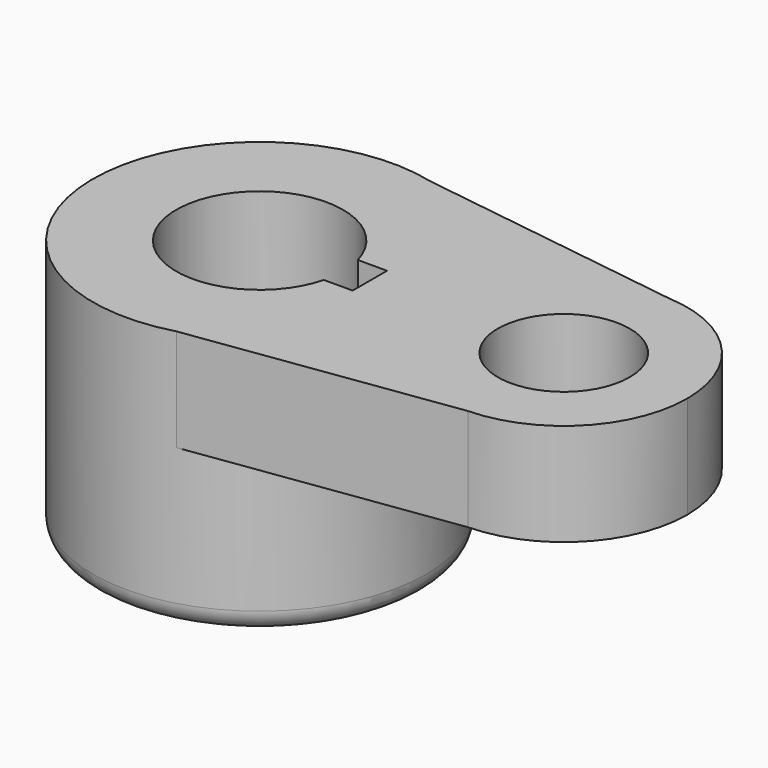
from build123d import *

# Parameters (mm, degrees)
F0_R     = 10.125
F1_DEPTH = 15.84
F2_R     = 4
F3_DEPTH = 6.21
F4_R     = 1.3


with BuildPart() as f1:
    # F0 (on Top) → F1 (new body)
    with BuildSketch(Plane.XY):
        with Locations((-14.4086510164, 0)):
            Circle(F0_R)
        with BuildLine():
            ThreePointArc((-9.5045986008, -1.2566527585), (-19.4709204703, -0.0483138353), (-9.529476475, 1.3500229791))
            Line((-9.529476475, 1.3500229791), (-7.7556929707, 1.3500229791))
            Line((-7.7556929707, 1.3500229791), (-7.7556929707, -1.2566527585))
            Line((-7.7556929707, -1.2566527585), (-9.5045986008, -1.2566527585))
        make_face(mode=Mode.SUBTRACT)
    extrude(amount=F1_DEPTH)

    # F2 (on face) → F3 (join)
    with BuildSketch(Plane.XY.offset(15.84)):
        with BuildLine():
            ThreePointArc((4.2266686103, -7.4980342454), (9.4186281084, -5.2422426418), (11.5549640544, 0))
            ThreePointArc((11.5549640544, 0), (9.500818026, 5.1568085595), (4.4635841825, 7.4888603666))
            ThreePointArc((4.4635841825, 7.4888603666), (-3.4440990013, 0.1185465609), (4.2266686103, -7.4980342454))
        make_face()
        with Locations((4.0549640544, 0)):
            Circle(F2_R, mode=Mode.SUBTRACT)
        with BuildLine():
            ThreePointArc((4.2266686103, -7.4980342454), (-3.4440990013, 0.1185465609), (4.4635841825, 7.4888603666))
            Line((4.4635841825, 7.4888603666), (-11.8889977578, 9.8064760468))
            ThreePointArc((-11.8889977578, 9.8064760468), (-6.4078037412, 6.2050034551), (-4.2836510164, 0))
            ThreePointArc((-4.2836510164, 0), (-6.3377093937, -6.113552676), (-11.6664710308, -9.7465929394))
            Line((-11.6664710308, -9.7465929394), (4.2266686103, -7.4980342454))
        make_face()
    extrude(amount=-F3_DEPTH)

    # F4
    f4_edges = [f1.edges().sort_by_distance(p)[0] for p in [
        (-24.533651, 0, 0),
    ]]
    fillet(f4_edges, radius=F4_R)


solid = f1.part
